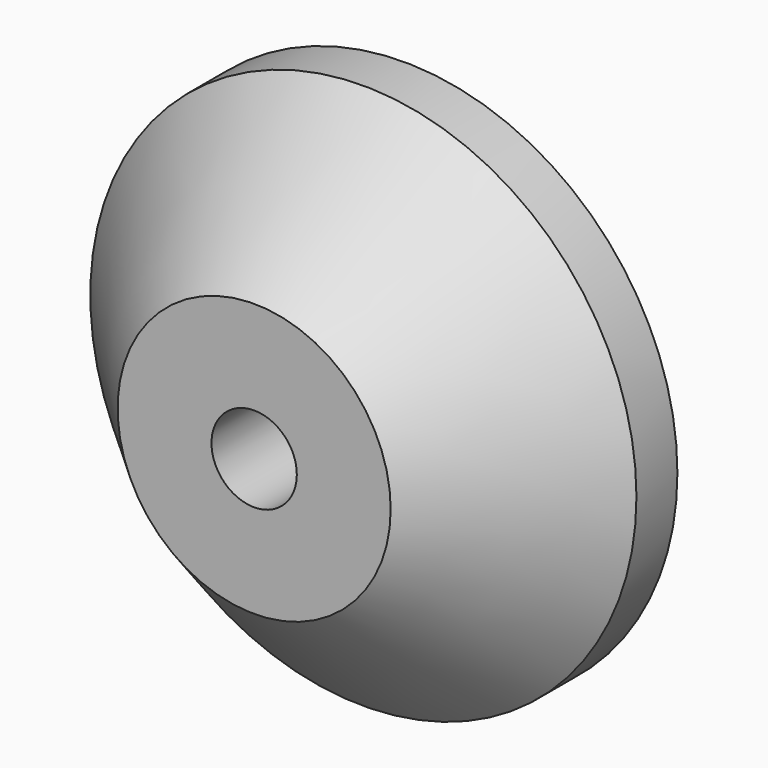
from build123d import *

# Parameters (mm, degrees)
F0_R     = 160
F0_R_2   = 42.35
F0_R_3   = 25
F1_DEPTH = 110
F2_DEPTH = 35
F3_SIZE  = 80


with BuildPart() as f1:
    # F0 (on Front) → F1 (new body)
    with BuildSketch(Plane.XZ):
        Circle(F0_R)
        Circle(F0_R_2, mode=Mode.SUBTRACT)
        Circle(F0_R_2)
        Circle(F0_R_3, mode=Mode.SUBTRACT)
    extrude(amount=F1_DEPTH)

    # F0 (on Front) → F2 (join)
    with BuildSketch(Plane.XZ):
        Circle(F0_R_2)
        Circle(F0_R_3, mode=Mode.SUBTRACT)
    extrude(amount=-F2_DEPTH)

    # F3
    f3_edges = [f1.edges().sort_by_distance(p)[0] for p in [
        (-160, -110, 0),
    ]]
    chamfer(f3_edges, length=F3_SIZE)


solid = f1.part
